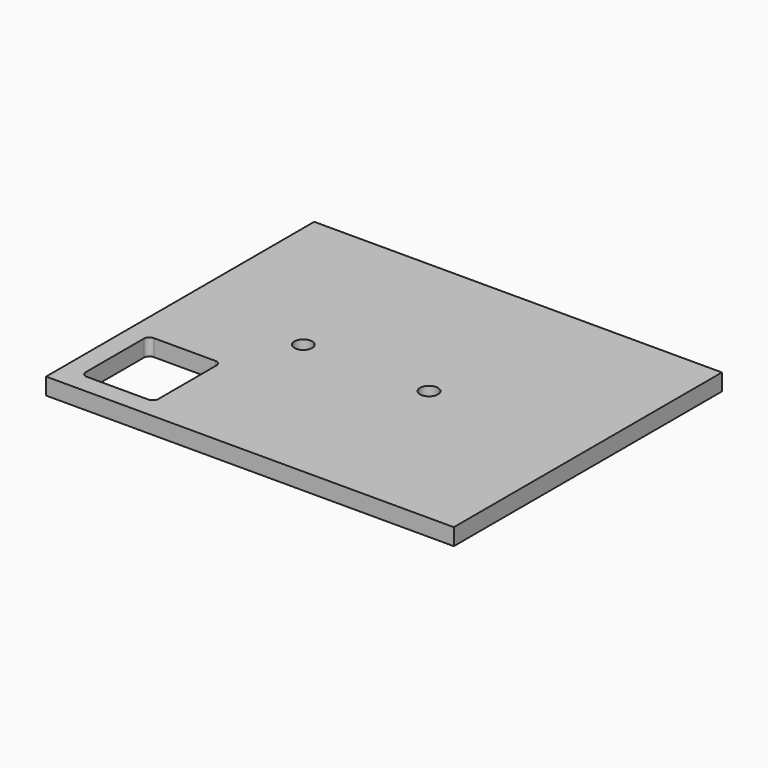
from build123d import *

# Parameters (mm, degrees)
F0_W     = 73
F0_H     = 60
F0_W_2   = 13
F0_H_2   = 15
F0_R     = 1.6
F1_DEPTH = 3
F2_R     = 1


with BuildPart() as f1:
    # F0 (on Top) → F1 (new body)
    with BuildSketch(Plane.XY):
        with Locations((-36.5, -30)):
            Rectangle(F0_W, F0_H)
        with Locations((-63, -49)):
            Rectangle(F0_W_2, F0_H_2, mode=Mode.SUBTRACT)
        with Locations((-50.948029, -30)):
            Circle(F0_R, mode=Mode.SUBTRACT)
        with Locations((-28.448029, -30)):
            Circle(F0_R, mode=Mode.SUBTRACT)
    extrude(amount=F1_DEPTH)

    # F2
    f2_edges = [f1.edges().sort_by_distance(p)[0] for p in [
        (-69.5, -41.5, 1.5),
        (-56.5, -56.5, 1.5),
        (-69.5, -56.5, 1.5),
        (-56.5, -41.5, 1.5),
    ]]
    fillet(f2_edges, radius=F2_R)


solid = f1.part
